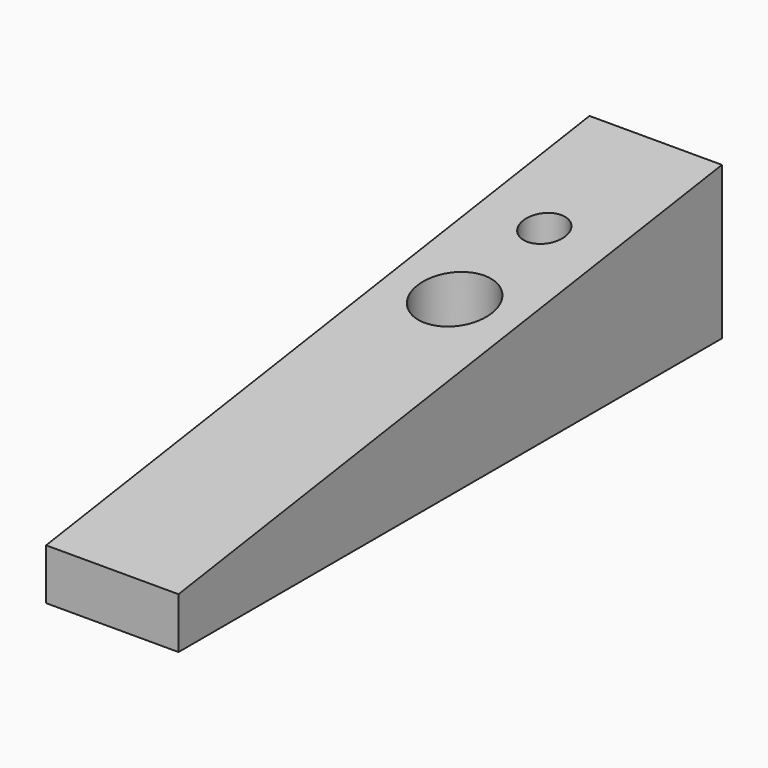
from build123d import *

# Parameters (mm, degrees)
F1_DEPTH = 3.9
F3_D     = 2.5
F3_DEPTH = 12.7
F4_D     = 2.5
F4_DEPTH = 12.7


with BuildPart() as f1:
    # F0 (on Right) → F1 (new body, symmetric)
    with BuildSketch(Plane.YZ):
        Polygon((-9.4, 0), (-7, 0), (-7, 7.95), (-9.4, 7.59), align=None)
        Polygon((-40, 0), (-16.2, 0), (-16.2, 2.11), (-17, 2.11), (-17, 4.11), (-17, 6.45), (-40, 3), align=None)
        Polygon((-14.8, 0), (-13.4, 0), (-13.4, 2.11), (-12.6, 2.11), (-12.6, 4.11), (-12.6, 7.11), (-14.8, 6.78), align=None)
        Polygon((-7, 0), (0, 0), (0, 9), (-7, 7.95), align=None)
        Polygon((-16.2, 0), (-14.8, 0), (-14.8, 6.78), (-17, 6.45), (-17, 4.11), (-17, 2.11), (-16.2, 2.11), align=None)
        Polygon((-13.4, 0), (-9.4, 0), (-9.4, 7.59), (-12.6, 7.11), (-12.6, 4.11), (-12.6, 2.11), (-13.4, 2.11), align=None)
    extrude(amount=F1_DEPTH, both=True)

    # F3
    with Locations(Plane(origin=(0, 0, 0), x_dir=(1, 0, 0), z_dir=(0, 0, -1))):
        with Locations((0, 8.200222)):
            Hole(F3_D / 2, depth=F3_DEPTH)

    # F4
    with Locations(Plane(origin=(0, 0, 0), x_dir=(1, 0, 0), z_dir=(0, 0, -1))):
        with Locations((0, 14.799741)):
            Hole(F4_D / 2, depth=F4_DEPTH)

    # F0 (on Right) → F5 (revolve, cut)
    with BuildSketch(Plane.YZ):
        Polygon((-14.8, 0), (-13.4, 0), (-13.4, 2.11), (-12.6, 2.11), (-12.6, 4.11), (-12.6, 7.11), (-14.8, 6.78), align=None)
    revolve(axis=Axis((0, -14.8, 3.39), (0, 0, 1)), mode=Mode.SUBTRACT)


solid = f1.part
